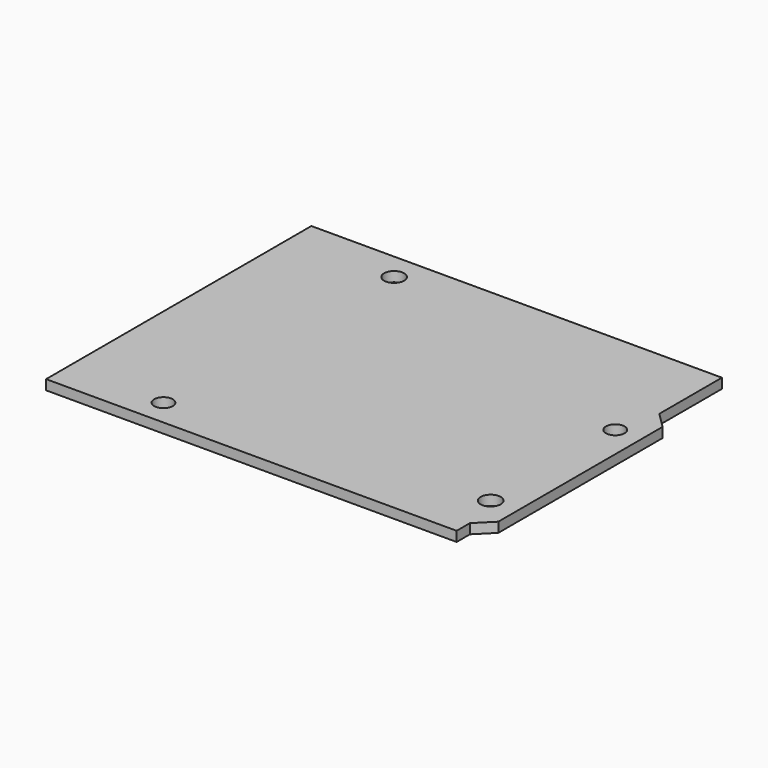
from build123d import *

# Parameters (mm, degrees)
F1_DEPTH = 1.588
F2_R     = 1.6195
F2_R_2   = 1.5
F3_DEPTH = 1.588


with BuildPart() as f1:
    # F0 (on Top) → F1 (new body)
    with BuildSketch(Plane.XY):
        Polygon((35.56, 11.557), (33.02, 14.097), (33.02, -24.003), (35.56, -21.463), align=None)
        Polygon((33.02, 26.67), (-33.02, 26.67), (-33.02, -26.67), (33.02, -26.67), (33.02, -24.003), (33.02, 14.097), align=None)
    extrude(amount=F1_DEPTH)

    # F2 (on face) → F3 (cut)
    with BuildSketch(Plane.XY.offset(1.588)):
        with Locations((-16.2435, 22.3395)):
            Circle(F2_R)
        with Locations((-17.506, -22.459)):
            Circle(F2_R_2)
        with Locations((31.227971, -17.5895)):
            Circle(F2_R)
        with Locations((31.425, 7.219)):
            Circle(F2_R_2)
    extrude(amount=-F3_DEPTH, mode=Mode.SUBTRACT)


solid = f1.part
